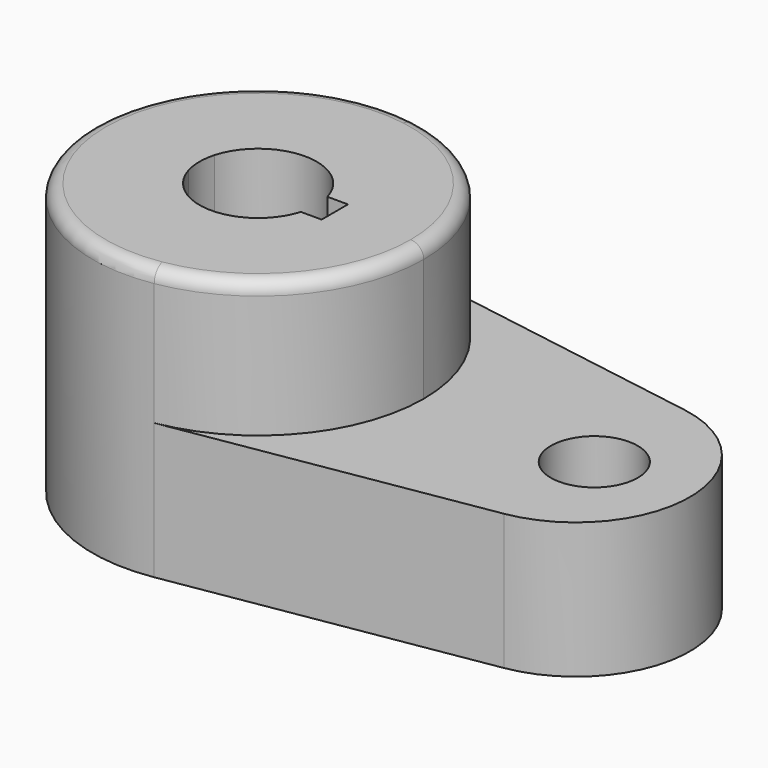
from build123d import *

# Parameters (mm, degrees)
F0_R     = 4.061318
F1_DEPTH = 12.7
F2_DEPTH = 25.4
F3_R     = 1.22642


with BuildPart() as f1:
    # F0 (on Top) → F1 (new body)
    with BuildSketch(Plane.XY):
        with BuildLine():
            ThreePointArc((2.511697, 15.282841), (11.806241, 10.024297), (15.487861, 0))
            ThreePointArc((15.487861, 0), (11.806241, -10.024297), (2.511697, -15.282841))
            Line((2.511697, -15.282841), (31.435615, -10.529267))
            ThreePointArc((31.435615, -10.529267), (40.375675, 0), (31.435615, 10.529267))
            Line((31.435615, 10.529267), (2.511697, 15.282841))
        make_face()
        with Locations((31.435615, 0)):
            Circle(F0_R, mode=Mode.SUBTRACT)
        with BuildLine():
            ThreePointArc((2.511697, 15.282841), (11.806241, 10.024297), (15.487861, 0))
            ThreePointArc((15.487861, 0), (11.806241, -10.024297), (2.511697, -15.282841))
            Line((2.511697, -15.282841), (31.435615, -10.529267))
            ThreePointArc((31.435615, -10.529267), (40.375675, 0), (31.435615, 10.529267))
            Line((31.435615, 10.529267), (2.511697, 15.282841))
        make_face()
        with Locations((31.435615, 0)):
            Circle(F0_R, mode=Mode.SUBTRACT)
        with BuildLine():
            ThreePointArc((2.511697, -15.282841), (11.806241, -10.024297), (15.487861, 0))
            ThreePointArc((15.487861, 0), (11.806241, 10.024297), (2.511697, 15.282841))
            ThreePointArc((2.511697, 15.282841), (-15.487861, 0), (2.511697, -15.282841))
        make_face()
        with BuildLine():
            ThreePointArc((-5.276986, 1.502324), (0, 5.486671), (5.276986, 1.502324))
            Line((5.276986, 1.502324), (7.19986, 1.502324))
            Line((7.19986, 1.502324), (7.19986, -1.577626))
            Line((7.19986, -1.577626), (5.254965, -1.577626))
            ThreePointArc((5.254965, -1.577626), (0, -5.486671), (-5.254965, -1.577626))
            Line((-5.254965, -1.577626), (-7.429904, -1.577626))
            Line((-7.429904, -1.577626), (-7.429904, 1.502324))
            Line((-7.429904, 1.502324), (-5.276986, 1.502324))
        make_face(mode=Mode.SUBTRACT)
        with BuildLine():
            ThreePointArc((-5.254965, -1.577626), (-5.486531, -0.039228), (-5.276986, 1.502324))
            Line((-5.276986, 1.502324), (-7.429904, 1.502324))
            Line((-7.429904, 1.502324), (-7.429904, -1.577626))
            Line((-7.429904, -1.577626), (-5.254965, -1.577626))
        make_face()
    extrude(amount=F1_DEPTH)

    # F0 (on Top) → F2 (join)
    with BuildSketch(Plane.XY):
        with BuildLine():
            ThreePointArc((2.511697, -15.282841), (11.806241, -10.024297), (15.487861, 0))
            ThreePointArc((15.487861, 0), (11.806241, 10.024297), (2.511697, 15.282841))
            ThreePointArc((2.511697, 15.282841), (-15.487861, 0), (2.511697, -15.282841))
        make_face()
        with BuildLine():
            ThreePointArc((-5.276986, 1.502324), (0, 5.486671), (5.276986, 1.502324))
            Line((5.276986, 1.502324), (7.19986, 1.502324))
            Line((7.19986, 1.502324), (7.19986, -1.577626))
            Line((7.19986, -1.577626), (5.254965, -1.577626))
            ThreePointArc((5.254965, -1.577626), (0, -5.486671), (-5.254965, -1.577626))
            Line((-5.254965, -1.577626), (-7.429904, -1.577626))
            Line((-7.429904, -1.577626), (-7.429904, 1.502324))
            Line((-7.429904, 1.502324), (-5.276986, 1.502324))
        make_face(mode=Mode.SUBTRACT)
        with BuildLine():
            ThreePointArc((-5.254965, -1.577626), (-5.486531, -0.039228), (-5.276986, 1.502324))
            Line((-5.276986, 1.502324), (-7.429904, 1.502324))
            Line((-7.429904, 1.502324), (-7.429904, -1.577626))
            Line((-7.429904, -1.577626), (-5.254965, -1.577626))
        make_face()
    extrude(amount=F2_DEPTH)

    # F3
    f3_edges = [f1.edges().sort_by_distance(p)[0] for p in [
        (-2.511697, 15.282841, 25.4),
    ]]
    fillet(f3_edges, radius=F3_R)


solid = f1.part
